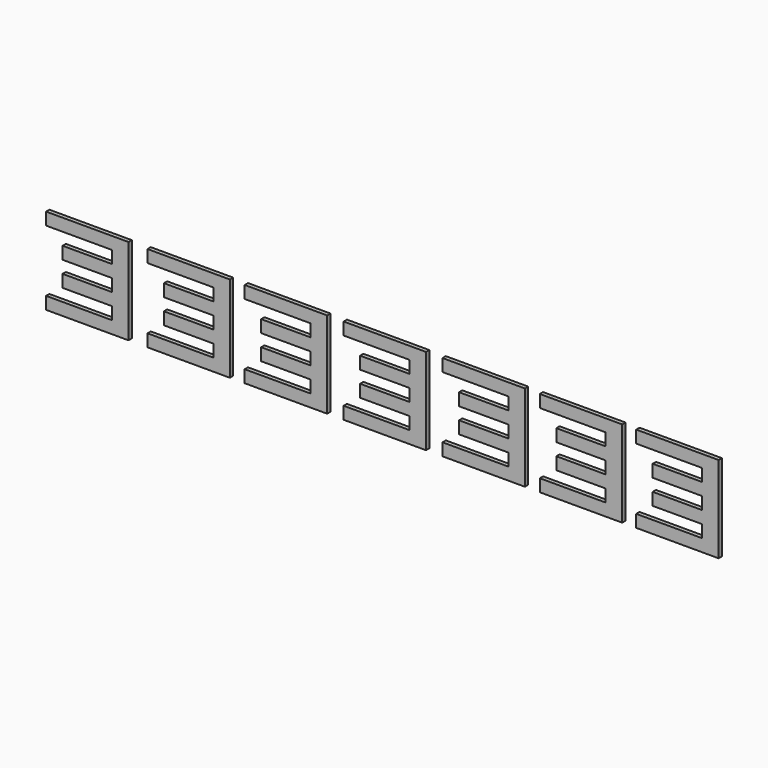
from build123d import *

# Parameters (mm, degrees)
F1_DEPTH = 5
F3_DEPTH = 5


with BuildPart() as f1:
    # F0 (on Front) → F1 (new body)
    with BuildSketch(Plane.XZ):
        Polygon((-40.917194, 53.180839), (-40.917194, 38.180839), (39.082806, 38.180839), (39.082806, 23.180839), (-20.917194, 23.180839), (-20.917194, 8.180839), (39.082806, 8.180839), (39.082806, -6.819161), (-20.917194, -6.819161), (-20.917194, -21.819161), (39.082806, -21.819161), (39.082806, -36.819161), (-40.917194, -36.819161), (-40.917194, -51.819161), (59.082806, -51.819161), (59.082806, 53.180839), align=None)
    extrude(amount=F1_DEPTH)


with BuildPart() as f3:
    # F2 (on Right) → F3 (new body)
    with BuildSketch(Plane.YZ):
        Polygon((-47.5, 52.5), (-47.5, 37.5), (32.5, 37.5), (32.5, 22.5), (-27.5, 22.5), (-27.5, 7.5), (32.5, 7.5), (32.5, -7.5), (-27.5, -7.5), (-27.5, -22.5), (32.5, -22.5), (32.5, -37.5), (-47.5, -37.5), (-47.5, -52.5), (52.5, -52.5), (52.5, 52.5), align=None)
    extrude(amount=F3_DEPTH)


with BuildPart() as f4_1:
    # F4: copy of F1
    add(f1.part.moved(Location((120, 0, 0))))


with BuildPart() as f4_2:
    # F4: copy of F3
    add(f3.part.moved(Location((120, 0, 0))))


with BuildPart() as f5_1:
    # F5: copy of F1
    add(f1.part.moved(Location((240, 0, 0))))


with BuildPart() as f8_1:
    # F8: copy of F5_1
    add(f5_1.part.moved(Location((118, 0, 0))))


with BuildPart() as f9_1:
    # F9: copy of F8_1
    add(f8_1.part.moved(Location((117, 0, 0))))


with BuildPart() as f10_1:
    # F10: copy of F1
    add(f1.part.moved(Location((-118, 0, 0))))


with BuildPart() as f11_1:
    # F11: copy of F10_1
    add(f10_1.part.moved(Location((-123, 0, 0))))


solid = Compound([f1.part, f4_1.part, f5_1.part, f8_1.part, f9_1.part, f10_1.part, f11_1.part])
